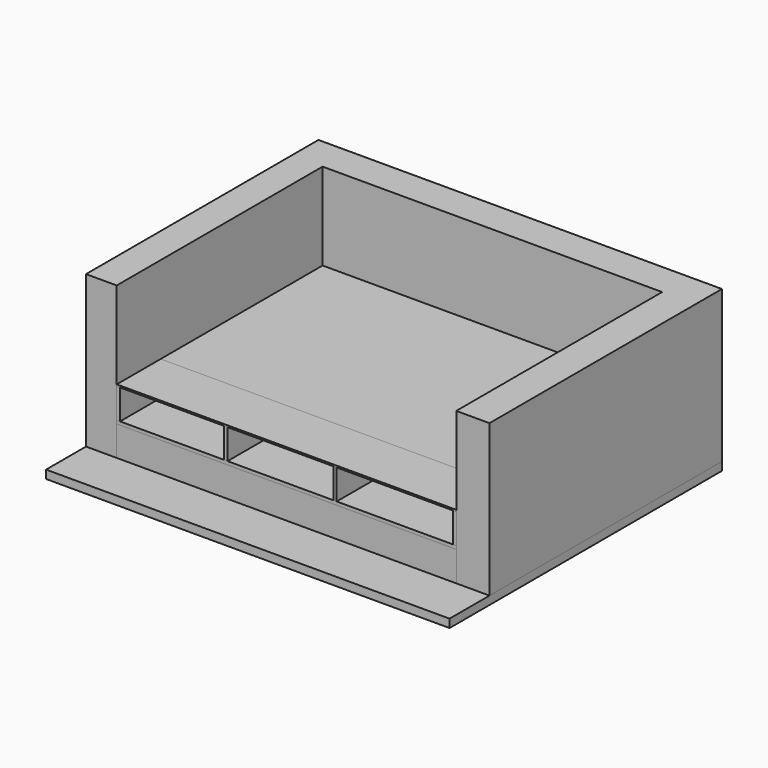
from build123d import *

# Parameters (mm, degrees)
F2_DEPTH  = 20
F3_W      = 150
F3_H      = 20
F4_DEPTH  = 20
F8_W      = 1325
F8_H      = 15
F9_DEPTH  = 40
F11_DEPTH = 15
F16_DEPTH = 15
F17_W     = 26.7
F17_H     = 325
F18_DEPTH = 15
F22_W     = 1216.7
F22_H     = 40
F23_DEPTH = 15
F26_DEPTH = 914.4
F25_W     = 2045
F25_H     = 1550
F27_DEPTH = 50
F28_W     = 15
F28_H     = 40
F29_DEPTH = 2045
F30_W     = 627.5
F30_H     = 380
F31_DEPTH = 5
F32_W     = 637.5
F32_H     = 380
F33_DEPTH = 5
F34_W     = 700
F34_H     = 200
F35_DEPTH = 5
F37_DEPTH = 15
F38_W     = 2045
F38_H     = 1219.2
F39_DEPTH = 10
F38_W_2   = 20
F38_H_2   = 305
F40_DEPTH = 10
F41_W     = 2045
F41_H     = 193.263169
F42_DEPTH = 20


with BuildPart() as f2:
    # F1 (on offset) → F2 (new body)
    with BuildSketch(Plane.XY.offset(180)):
        Polygon((-2045, 0), (0, 0), (0, 150), (-20, 150), (-20, 300), (-720, 300), (-720, 150), (-740, 150), (-740, 300), (-1377.5, 300), (-1377.5, 150), (-1397.5, 150), (-1397.5, 300), (-2025, 300), (-2025, 150), (-2045, 150), align=None)
    extrude(amount=F2_DEPTH)


with BuildPart() as f4:
    # F3 (on face) → F4 (new body)
    with BuildSketch(Plane.YZ.offset(-20)):
        Polygon((20, 180), (20, 0), (305, 0), (305, 40), (320, 40), (320, 0), (383.3, 0), (383.3, 380), (320, 380), (320, 340), (305, 340), (305, 380), (0, 380), (0, 200), (150, 200), (300, 200), (300, 180), (150, 180), align=None)
        with Locations((225, 190)):
            Rectangle(F3_W, F3_H)
    extrude(amount=F4_DEPTH)


with BuildPart() as f5_1:
    # F5: copy of F4
    add(f4.part.moved(Location((-720, 0, 0))))


with BuildPart() as f6_1:
    # F6: copy of F5_1
    add(f5_1.part.moved(Location((-657.5, 0, 0))))


with BuildPart() as f7_1:
    # F7: copy of F6_1
    add(f6_1.part.moved(Location((-647.5, 0, 0))))


with BuildPart() as f9:
    # F8 (on Top) → F9 (new body)
    with BuildSketch(Plane.XY):
        with Locations((-1382.5, 312.5)):
            Rectangle(F8_W, F8_H)
    extrude(amount=F9_DEPTH)


with BuildPart() as f11:
    # F10 (on face) → F11 (new body)
    with BuildSketch(Plane.YZ):
        Polygon((959.15, 380), (383.3, 380), (383.3, 340), (1530, 340), (1530, 360), (1550, 360), (1550, 380), (974.15, 380), (974.15, 360), (959.15, 360), align=None)
    extrude(amount=-F11_DEPTH)


with BuildPart() as f12_1:
    # F12: copy of F11
    add(f11.part.moved(Location((-2030, 0, 0))))


with BuildPart() as f13_1:
    # F13: copy of F11
    add(f11.part.moved(Location((-720, 0, 0))))


with BuildPart() as f14_1:
    # F14: copy of F13_1
    add(f13_1.part.moved(Location((-662.5, 0, 0))))


with BuildPart() as f16:
    # F15 (on face) → F16 (new body)
    with BuildSketch(Plane(origin=(0, 1550, 0), x_dir=(-1, 0, 0), z_dir=(0, 1, 0))):
        Polygon((720, 380), (15, 380), (15, 360), (0, 360), (0, 340), (2045, 340), (2045, 360), (2030, 360), (2030, 380), (1397.5, 380), (1397.5, 360), (1382.5, 360), (1382.5, 380), (735, 380), (735, 360), (720, 360), align=None)
    extrude(amount=-F16_DEPTH)


with BuildPart() as f18:
    # F17 (on face) → F18 (new body)
    with BuildSketch(Plane.YZ.offset(-720)):
        with Locations((746.65, 177.5)):
            Rectangle(F17_W, F17_H)
    extrude(amount=-F18_DEPTH)


with BuildPart() as f19_1:
    # F19: copy of F18
    add(f18.part.moved(Location((0, 440, 0))))


with BuildPart() as f20_1:
    # F20: copy of F18
    add(f18.part.moved(Location((-662.5, 0, 0))))


with BuildPart() as f21_1:
    # F21: copy of F19_1
    add(f19_1.part.moved(Location((-662.5, 0, 0))))


with BuildPart() as f23:
    # F22 (on face) → F23 (new body)
    with BuildSketch(Plane.YZ.offset(-720)):
        with Locations((941.65, 200)):
            Rectangle(F22_W, F22_H)
    extrude(amount=F23_DEPTH)


with BuildPart() as f24_1:
    # F24: copy of F23
    add(f23.part.moved(Location((685, 0, 0))))


with BuildPart() as f26:
    # F25 (on Top) → F26 (new body)
    with BuildSketch(Plane.XY):
        Polygon((0, 1550), (0, 0), (200, 0), (200, 1750), (-2230.113029, 1750), (-2230.113029, 0), (-2045, 0), (-2045, 1550), align=None)
    extrude(amount=F26_DEPTH)


with BuildPart() as f27:
    # F25 (on Top) → F27 (new body)
    with BuildSketch(Plane.XY):
        Polygon((200, 0), (0, 0), (-2045, 0), (-2230.113029, 0), (-2230.113029, -300.386339), (200, -300.386339), align=None)
        with Locations((-1022.5, 775)):
            Rectangle(F25_W, F25_H)
        Polygon((0, 1550), (0, 0), (200, 0), (200, 1750), (-2230.113029, 1750), (-2230.113029, 0), (-2045, 0), (-2045, 1550), align=None)
    extrude(amount=-F27_DEPTH)


with BuildPart() as f29:
    # F28 (on face) → F29 (new body)
    with BuildSketch(Plane.YZ):
        with Locations((312.5, 360)):
            Rectangle(F28_W, F28_H)
    extrude(amount=-F29_DEPTH)


with BuildPart() as f31:
    # F30 (on face) → F31 (new body)
    with BuildSketch(Plane.XZ.offset(-305)):
        with Locations((-1711.25, 190)):
            Rectangle(F30_W, F30_H)
    extrude(amount=F31_DEPTH)


with BuildPart() as f33:
    # F32 (on face) → F33 (new body)
    with BuildSketch(Plane.XZ.offset(-305)):
        with Locations((-1058.75, 190)):
            Rectangle(F32_W, F32_H)
    extrude(amount=F33_DEPTH)


with BuildPart() as f35:
    # F34 (on face) → F35 (new body)
    with BuildSketch(Plane.XZ.offset(-305)):
        with Locations((-370, 280)):
            Rectangle(F34_W, F34_H)
    extrude(amount=F35_DEPTH)


with BuildPart() as f37:
    # F36 (on face) → F37 (new body)
    with BuildSketch(Plane.XZ.offset(-974.15)):
        Polygon((-720, 340), (-15, 340), (-15, 360), (0, 360), (0, 380), (-2045, 380), (-2045, 360), (-2030, 360), (-2030, 340), (-1397.5, 340), (-1397.5, 360), (-1382.5, 360), (-1382.5, 340), (-735, 340), (-735, 360), (-720, 360), align=None)
    extrude(amount=F37_DEPTH)


with BuildPart() as f39:
    # F38 (on face) → F39 (new body)
    with BuildSketch(Plane.XY.offset(380)):
        with Locations((-1022.5, 940.4)):
            Rectangle(F38_W, F38_H)
    extrude(amount=F39_DEPTH)


with BuildPart() as f40:
    # F38 (on face) → F40 (new body)
    with BuildSketch(Plane.XY.offset(380)):
        Polygon((-2045, 330.8), (-2045, 0), (-20, 0), (-20, 305), (0, 305), (0, 330.8), align=None)
        with Locations((-10, 152.5)):
            Rectangle(F38_W_2, F38_H_2)
    extrude(amount=F40_DEPTH)


with BuildPart() as f42:
    # F41 (on face) → F42 (new body)
    with BuildSketch(Plane.XZ.offset(-20)):
        with Locations((-1022.5, 83.368415)):
            Rectangle(F41_W, F41_H)
    extrude(amount=F42_DEPTH)


solid = Compound([f2.part, f4.part, f5_1.part, f6_1.part, f7_1.part, f9.part, f11.part, f12_1.part, f13_1.part, f14_1.part, f16.part, f18.part, f19_1.part, f20_1.part, f21_1.part, f23.part, f24_1.part, f26.part, f27.part, f29.part, f31.part, f33.part, f35.part, f37.part, f39.part, f40.part, f42.part])
